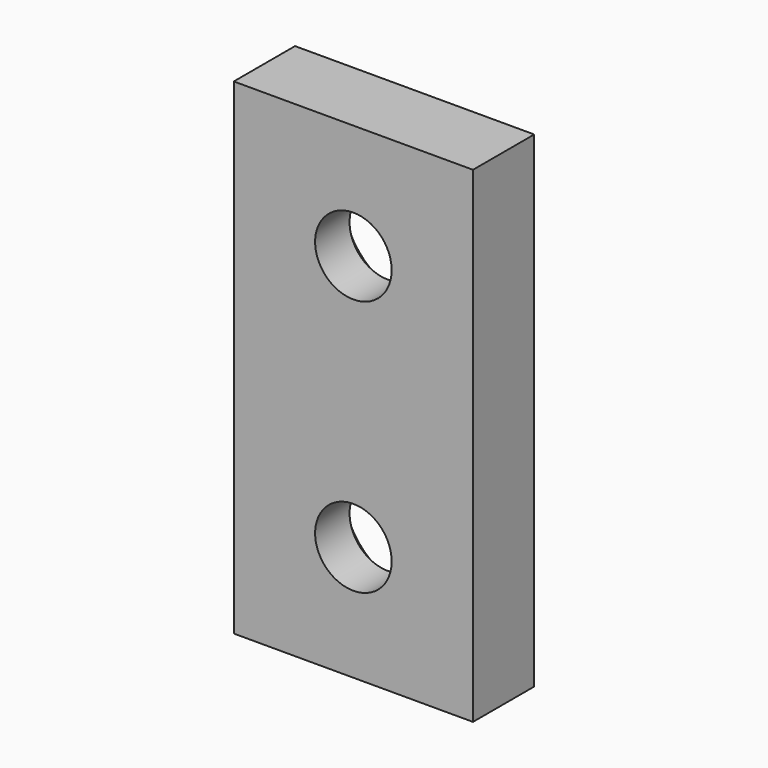
from build123d import *

# Parameters (mm, degrees)
F0_W           = 12.5
F0_H           = 25.4
F1_DEPTH       = 4
F3_D           = 4
F3_CSINK_D     = 7.5
F3_CSINK_ANGLE = 90


with BuildPart() as f1:
    # F0 (on Front) → F1 (new body)
    with BuildSketch(Plane.XZ):
        with Locations((0.696272, 9.18723)):
            Rectangle(F0_W, F0_H)
    extrude(amount=-F1_DEPTH)

    # F3 (through all)
    with Locations(Plane(origin=(0, 4, 0), x_dir=(-1, 0, 0), z_dir=(0, 1, 0))):
        with Locations((-0.696272, 15.88723), (-0.696272, 2.48723)):
            CounterSinkHole(F3_D / 2, F3_CSINK_D / 2, counter_sink_angle=F3_CSINK_ANGLE)


solid = f1.part
